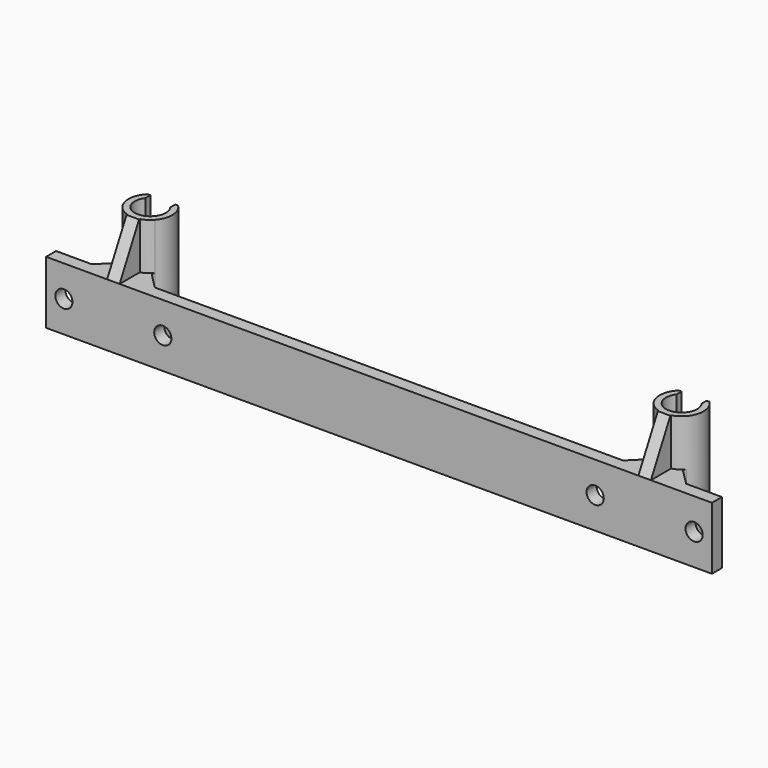
from build123d import *

# Parameters (mm, degrees)
F1_DEPTH = 20.0152
F3_DEPTH = 15
F4_R     = 2.75
F5_DEPTH = 19.7838
F8_DEPTH = 4


with BuildPart() as f1:
    # F0 (on Top) → F1 (new body)
    with BuildSketch(Plane.XY):
        with BuildLine():
            ThreePointArc((-81, 3), (-85, -5), (-89, 3))
            Line((-89, 3), (-89, 5))
            Line((-89, 5), (-89.8989794856, 5))
            ThreePointArc((-89.8989794856, 5), (-91.9953543967, 0.2549840475), (-90.25, -4.6300647944))
            ThreePointArc((-90.25, -4.6300647944), (-90.0004908056, -5.3228294538), (-90.2928932188, -5.9986094033))
            Line((-90.2928932188, -5.9986094033), (-95.0770838155, -10.7828))
            Line((-95.0770838155, -10.7828), (-106.526, -10.7828))
            Line((-106.526, -10.7828), (-106.526, -14.7828))
            Line((-106.526, -14.7828), (106.526, -14.7828))
            Line((106.526, -14.7828), (106.526, -10.7828))
            Line((106.526, -10.7828), (95.0770838155, -10.7828))
            Line((95.0770838155, -10.7828), (90.2928932188, -5.9986094033))
            ThreePointArc((90.2928932188, -5.9986094033), (90.0004908056, -5.3228294538), (90.25, -4.6300647944))
            ThreePointArc((90.25, -4.6300647944), (91.9953543967, 0.2549840475), (89.8989794856, 5))
            Line((89.8989794856, 5), (89, 5))
            Line((89, 5), (89, 3))
            ThreePointArc((89, 3), (85, -5), (81, 3))
            Line((81, 3), (81, 5))
            Line((81, 5), (80.1010205144, 5))
            ThreePointArc((80.1010205144, 5), (78.0046456033, 0.2549840475), (79.75, -4.6300647944))
            ThreePointArc((79.75, -4.6300647944), (79.9995091944, -5.3228294538), (79.7071067812, -5.9986094033))
            Line((79.7071067812, -5.9986094033), (74.9229161845, -10.7828))
            Line((74.9229161845, -10.7828), (-74.9229161845, -10.7828))
            Line((-74.9229161845, -10.7828), (-79.7071067812, -5.9986094033))
            ThreePointArc((-79.7071067812, -5.9986094033), (-79.9995091944, -5.3228294538), (-79.75, -4.6300647944))
            ThreePointArc((-79.75, -4.6300647944), (-78.0046456033, 0.2549840475), (-80.1010205144, 5))
            Line((-80.1010205144, 5), (-81, 5))
            Line((-81, 5), (-81, 3))
        make_face()
    extrude(amount=F1_DEPTH)

    # F2 (on face) → F3 (join)
    with BuildSketch(Plane.XY.offset(20.0152)):
        with BuildLine():
            Line((-89, 5), (-89.8989794856, 5))
            ThreePointArc((-89.8989794856, 5), (-91.9953543967, 0.2549840475), (-90.25, -4.6300647944))
            ThreePointArc((-90.25, -4.6300647944), (-85, -7), (-79.75, -4.6300647944))
            ThreePointArc((-79.75, -4.6300647944), (-78.0046456033, 0.2549840475), (-80.1010205144, 5))
            Line((-80.1010205144, 5), (-81, 5))
            Line((-81, 5), (-81, 3))
            ThreePointArc((-81, 3), (-85, -5), (-89, 3))
            Line((-89, 3), (-89, 5))
        make_face()
        with BuildLine():
            ThreePointArc((80.1010205144, 5), (78.0046456033, 0.2549840475), (79.75, -4.6300647944))
            ThreePointArc((79.75, -4.6300647944), (85, -7), (90.25, -4.6300647944))
            ThreePointArc((90.25, -4.6300647944), (91.9953543967, 0.2549840475), (89.8989794856, 5))
            Line((89.8989794856, 5), (89, 5))
            Line((89, 5), (89, 3))
            ThreePointArc((89, 3), (85, -5), (81, 3))
            Line((81, 3), (81, 5))
            Line((81, 5), (80.1010205144, 5))
        make_face()
    extrude(amount=F3_DEPTH)

    # F4 (on face) → F5 (cut, through all)
    with BuildSketch(Plane.XZ.offset(14.7828)):
        with Locations((-100.8270838155, 10.0076)):
            Circle(F4_R)
        with Locations((-69.1729161845, 10.0076)):
            Circle(F4_R)
        with Locations((69.1729161845, 10.0076)):
            Circle(F4_R)
        with Locations((100.8270838155, 10.0076)):
            Circle(F4_R)
    extrude(amount=-F5_DEPTH, mode=Mode.SUBTRACT)

    # F7 (on offset) → F8 (join)
    with BuildSketch(Plane.YZ.offset(-87)):
        Polygon((-7, 35.0152), (-14.7828, 20.0152), (-6, 20.0152), (-6, 35.0152), align=None)
    extrude(amount=F8_DEPTH)

    # F9: F1 across plane


with BuildPart() as f1_1:
    add(f1.part)
    add(f1.part.mirror(Plane.YZ))


solid = f1_1.part
